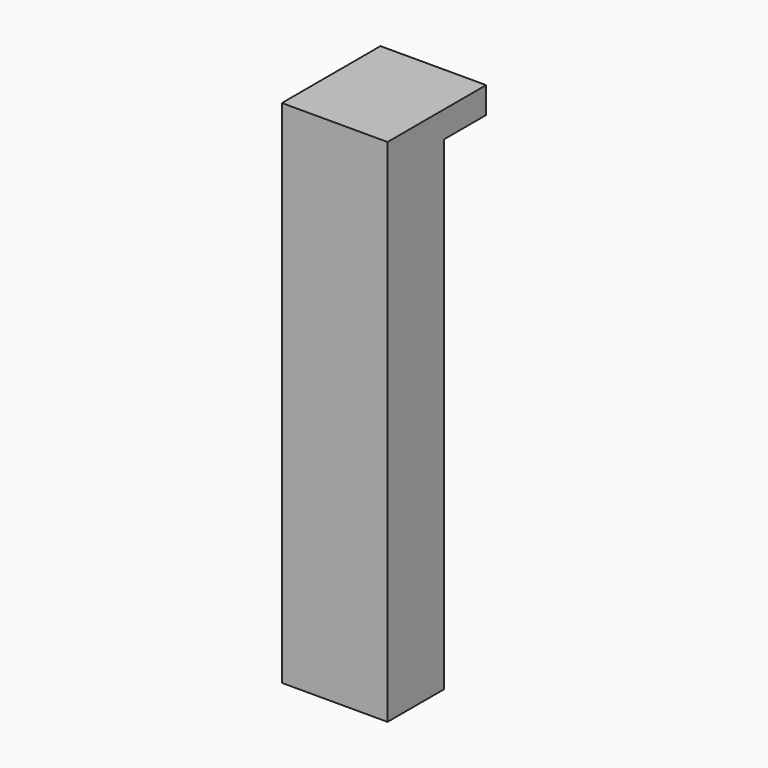
from build123d import *

# Parameters (mm, degrees)
BOX007_W     = 12
BOX007_H     = 8
BOX007_DEPTH = 55
BOX008_W     = 12
BOX008_H     = 14
BOX008_DEPTH = 3


with BuildPart() as obj1:
    # Box007 → Box007 (new body)
    with BuildSketch(Plane(origin=(47, 17, 0), x_dir=(1, 0, 0), z_dir=(0, 0, 1))):
        with Locations((6, 4)):
            Rectangle(BOX007_W, BOX007_H)
    extrude(amount=BOX007_DEPTH)


with BuildPart() as l1:
    # Box008 → Box008 (new body)
    with BuildSketch(Plane(origin=(47, 17, 55), x_dir=(1, 0, 0), z_dir=(0, 0, 1))):
        with Locations((6, 7)):
            Rectangle(BOX008_W, BOX008_H)
    extrude(amount=BOX008_DEPTH)

    # Fusion008: union obj1
    add(obj1.part)


with BuildPart() as l1_1:
    # Fusion008 placement: moved
    add(l1.part.moved(Location((5, 3, 0))))


solid = l1_1.part
